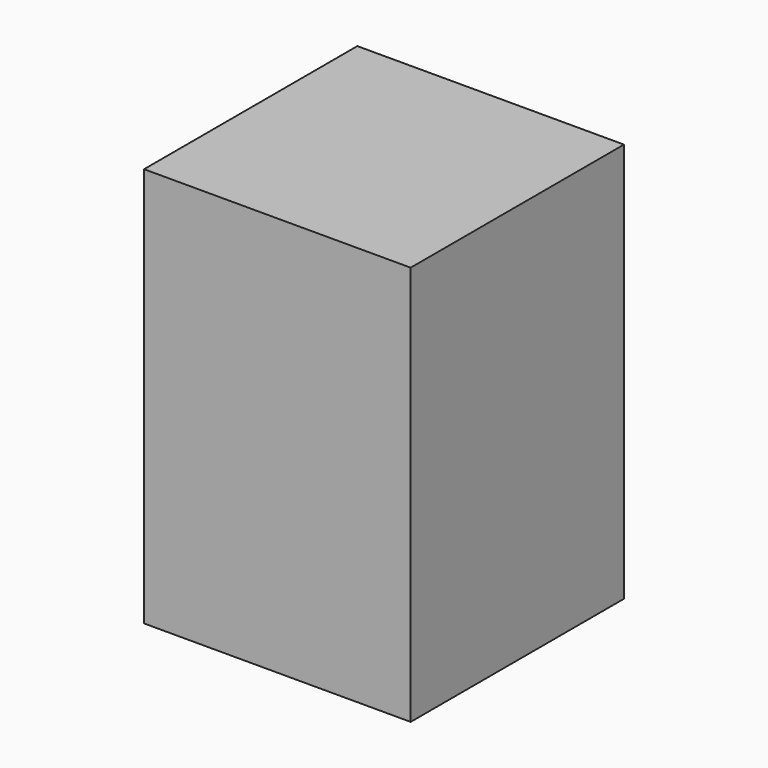
from build123d import *

# Parameters (mm, degrees)
F1_DEPTH = 12.7
F2_W     = 12.7
F2_H     = 19.05
F3_DEPTH = 25.4


with BuildPart() as f1:
    # F0 (on Front) → F1 (new body)
    with BuildSketch(Plane.XZ):
        Polygon((0, -38.1), (0, 0), (-25.4, 0), (-25.4, -19.05), (-6.35, -38.1), align=None)
    extrude(amount=F1_DEPTH)

    # F2 (on face) → F3 (join)
    with BuildSketch(Plane.YZ):
        with Locations((-6.35, -9.525)):
            Rectangle(F2_W, F2_H)
        Polygon((0, 0), (0, -19.05), (0, -38.1), (6.35, -38.1), (6.35, 0), align=None)
        Polygon((-12.7, -38.1), (-12.7, -19.05), (-12.7, 0), (-19.05, 0), (-19.05, -38.1), align=None)
    extrude(amount=-F3_DEPTH)


solid = f1.part
